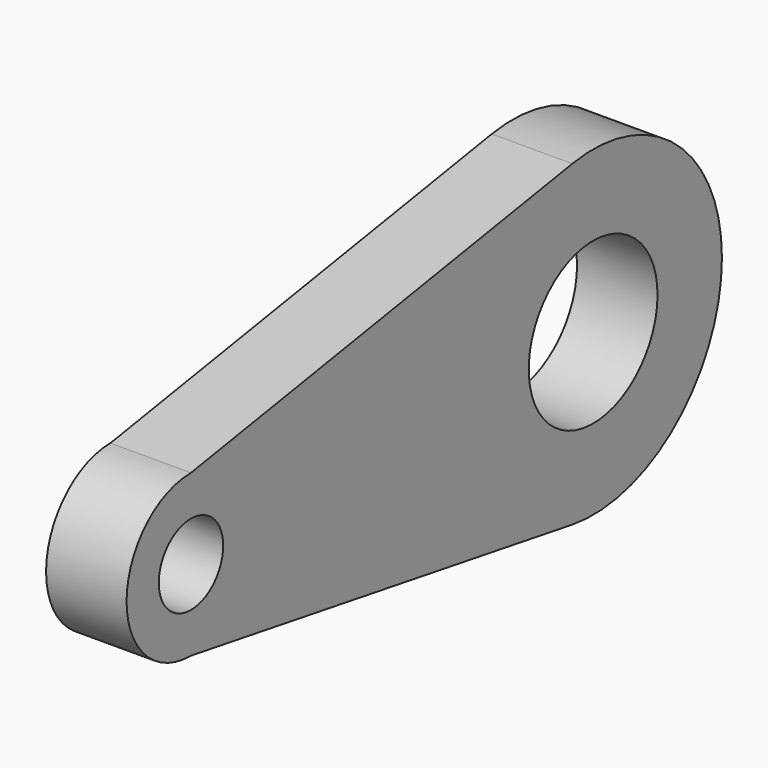
from build123d import *

# Parameters (mm, degrees)
F0_R     = 1.5875
F0_R_2   = 3.175
F1_DEPTH = 3.175


with BuildPart() as f1:
    # F0 (on Right) → F1 (new body)
    with BuildSketch(Plane.YZ):
        with BuildLine():
            ThreePointArc((0, 3.175), (2.245064, 2.245064), (3.175, 0))
            ThreePointArc((3.175, 0), (2.245064, -2.245064), (0, -3.175))
            Line((0, -3.175), (18.797582, -6.265861))
            ThreePointArc((18.797582, -6.265861), (13.477869, 0), (18.797582, 6.265861))
            Line((18.797582, 6.265861), (0, 3.175))
        make_face()
        with BuildLine():
            ThreePointArc((0, -3.175), (2.245064, -2.245064), (3.175, 0))
            ThreePointArc((3.175, 0), (2.245064, 2.245064), (0, 3.175))
            ThreePointArc((0, 3.175), (-3.175, 0), (0, -3.175))
        make_face()
        Circle(F0_R, mode=Mode.SUBTRACT)
        with BuildLine():
            ThreePointArc((26.177869, 0), (23.937624, 4.840704), (18.797582, 6.265861))
            ThreePointArc((18.797582, 6.265861), (13.477869, 0), (18.797582, -6.265861))
            ThreePointArc((18.797582, -6.265861), (23.937624, -4.840704), (26.177869, 0))
        make_face()
        with Locations((19.827869, 0)):
            Circle(F0_R_2, mode=Mode.SUBTRACT)
    extrude(amount=F1_DEPTH)


solid = f1.part
